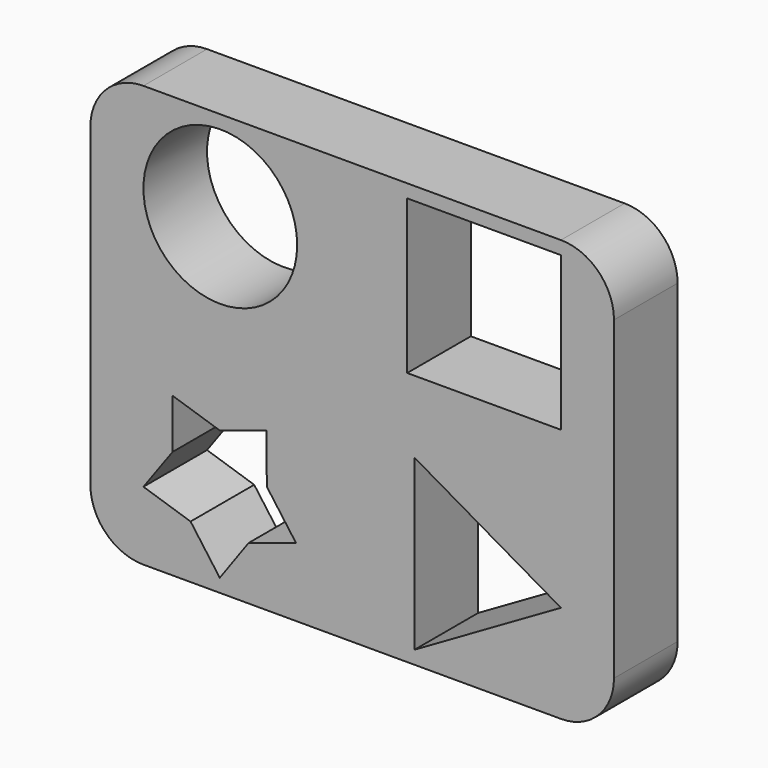
from build123d import *

# Parameters (mm, degrees)
F1_DEPTH = 7.62
F2_W     = 14.732
F2_H     = 14.732
F5_DEPTH = 25.4
F6_DEPTH = 25.4
F7_DEPTH = 25.4
F8_R     = 7.366
F9_DEPTH = 25.4
F10_T    = -0.254


with BuildPart() as f1:
    # F0 (on Front) → F1 (new body)
    with BuildSketch(Plane.XZ):
        with BuildLine():
            ThreePointArc((0, 5.08), (1.4878975516, 1.4878975516), (5.08, 0))
            Line((5.08, 0), (45.085, 0))
            ThreePointArc((45.085, 0), (48.6771024484, 1.4878975516), (50.165, 5.08))
            Line((50.165, 5.08), (50.165, 35.306))
            ThreePointArc((50.165, 35.306), (48.6771024484, 38.8981024484), (45.085, 40.386))
            Line((45.085, 40.386), (5.08, 40.386))
            ThreePointArc((5.08, 40.386), (1.4878975516, 38.8981024484), (0, 35.306))
            Line((0, 35.306), (0, 5.08))
        make_face()
    extrude(amount=F1_DEPTH)

    # F2 (on face) → F5 (cut)
    with BuildSketch(Plane.XZ.offset(7.62)):
        with Locations((37.719, 31.75)):
            Rectangle(F2_W, F2_H)
    extrude(amount=-F5_DEPTH, mode=Mode.SUBTRACT)

    # F3 (on face) → F6 (cut)
    with BuildSketch(Plane.XZ.offset(7.62)):
        Polygon((31.0508851266, 17.4752), (31.0508851266, 1.27), (45.085, 9.3726), align=None)
    extrude(amount=-F6_DEPTH, mode=Mode.SUBTRACT)

    # F4 (on face) → F7 (cut)
    with BuildSketch(Plane.XZ.offset(7.62)):
        Polygon((9.5977203913, 5.108581493), (12.3952, 1.27), (15.1585802409, 5.108581493), (19.6948698543, 6.5898499511), (16.8980608845, 10.4263776555), (16.8911139309, 15.1761725752), (12.3783031817, 13.7024369881), (7.8586276198, 15.1629618442), (7.8690663965, 10.4131733151), (5.08, 6.5684745393), align=None)
    extrude(amount=-F7_DEPTH, mode=Mode.SUBTRACT)

    # F8 (on face) → F9 (cut)
    with BuildSketch(Plane.XZ.offset(7.62)):
        with Locations((12.446, 31.75)):
            Circle(F8_R)
    extrude(amount=-F9_DEPTH, mode=Mode.SUBTRACT)

    # F10
    f10_openings = [f1.faces().sort_by_distance(p)[0] for p in [
        (24.768491, 0, 18.728729),
    ]]
    offset(amount=F10_T, openings=f10_openings, kind=Kind.INTERSECTION)


solid = f1.part
